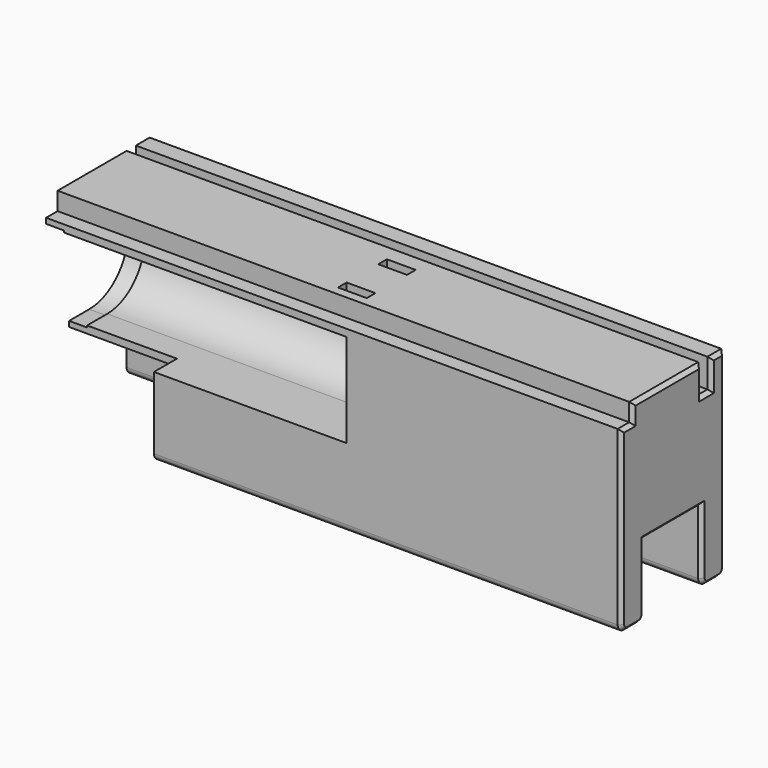
from build123d import *

# Parameters (mm, degrees)
PAD119_DEPTH            = 80
SKETCH530_R             = 2.75
POCKET373_DEPTH         = 8.001
SKETCH531_R             = 5
POCKET374_DEPTH         = 4.001
SKETCH538_W             = 3.2
SKETCH538_H             = 8
POCKET380_DEPTH         = 80.001
POCKET380_DEPTH_BACK    = 80.001
SKETCH550_W             = 30
SKETCH550_H             = 24
POCKET390_DEPTH         = 8.001
POCKET448_DEPTH         = 15.001
SKETCH625_W             = 8
SKETCH625_H             = 3
POCKET449_DEPTH         = 20.001
CHAMFER034_SIZE         = 1
POCKET477_DEPTH         = 12.5
BODY192_PLACEMENT_ANGLE = 180


with BuildPart() as part:
    # Sketch529 → Pad119 (new body, symmetric)
    with BuildSketch(Plane.YZ):
        with BuildLine():
            Line((-8, 2), (-8, 55))
            Line((-8, 55), (24, 55))
            Line((24, 55), (24, 50))
            Line((24, 50), (28, 50))
            Line((28, 50), (28, 2))
            ThreePointArc((26, 0), (27.414214, 0.585786), (28, 2))
            Line((26, 0), (22, 0))
            ThreePointArc((20, 2), (20.585786, 0.585786), (22, 0))
            Line((20, 2), (20, 20))
            Line((20, 20), (0, 20))
            Line((0, 20), (0, 2))
            ThreePointArc((-2, 0), (-0.585786, 0.585786), (0, 2))
            Line((-2, 0), (-6, 0))
            ThreePointArc((-8, 2), (-7.414214, 0.585786), (-6, 0))
        make_face()
    extrude(amount=PAD119_DEPTH, both=True)

    # Sketch530 → Pocket373 (cut, through all)
    with BuildSketch(Plane.XZ):
        with Locations((-50, 10)):
            Circle(SKETCH530_R)
        with Locations((50, 10)):
            Circle(SKETCH530_R)
    extrude(amount=POCKET373_DEPTH, mode=Mode.SUBTRACT)

    # Sketch531 → Pocket374 (cut, through all)
    with BuildSketch(Plane.XZ.offset(4)):
        with Locations((50, 10)):
            Circle(SKETCH531_R)
        with Locations((-50, 10)):
            Circle(SKETCH531_R)
    extrude(amount=POCKET374_DEPTH, mode=Mode.SUBTRACT)

    # Sketch538 → Pocket380 (cut, two sides)
    with BuildSketch(Plane.YZ) as pocket380_sk:
        with Locations((-1.6, 51)):
            Rectangle(SKETCH538_W, SKETCH538_H)
    extrude(amount=-POCKET380_DEPTH, mode=Mode.SUBTRACT)
    extrude(pocket380_sk.sketch, amount=POCKET380_DEPTH_BACK, mode=Mode.SUBTRACT)

    # Sketch550 → Pocket390 (cut, through all)
    with BuildSketch(Plane.XZ.offset(-20)):
        with Locations((65, 12)):
            Rectangle(SKETCH550_W, SKETCH550_H)
    extrude(amount=-POCKET390_DEPTH, mode=Mode.SUBTRACT)

    # Sketch623 → Groove022 (revolve, cut)
    with BuildSketch(Plane(origin=(0, 13, 35), x_dir=(1, 0, 0), z_dir=(0, 0, 1))):
        Polygon((-15, 0), (-15, 9), (-12.5, 9), (-12.5, 10), (-6.5, 10), (-3.5, 13), (75, 13), (75, 13.5), (80, 13.5), (80, 0), align=None)
    revolve(axis=Axis((0, 13, 35), (1, 0, 0)), mode=Mode.SUBTRACT)

    # Sketch624 → Pocket448 (cut, through all)
    with BuildSketch(Plane(origin=(0, 13, 35), x_dir=(1, 0, 0), z_dir=(0, -1, 0))):
        Polygon((-3.5, -13), (-3.5, 13), (75, 13), (75, 13.5), (80, 13.5), (80, -13.5), (75, -13.5), (75, -13), align=None)
    extrude(amount=-POCKET448_DEPTH, mode=Mode.SUBTRACT)

    # Sketch625 → Pocket449 (cut, through all)
    with BuildSketch(Plane(origin=(0, 13, 35), x_dir=(1, 0, 0), z_dir=(0, 0, 1))):
        with Locations((0, 7)):
            Rectangle(SKETCH625_W, SKETCH625_H)
        with Locations((0, -7)):
            Rectangle(SKETCH625_W, SKETCH625_H)
    extrude(amount=POCKET449_DEPTH, mode=Mode.SUBTRACT)

    # Chamfer034
    chamfer034_edges = [part.edges().sort_by_distance(p)[0] for p in [
        (-80, -4, 0),
        (-80, -7.414214, 0.585786),
        (-80, -8, 28.5),
        (-80, -5.6, 55),
        (-80, -3.2, 51),
        (-80, -1.6, 47),
        (-80, 0, 51),
        (-80, 12, 55),
        (-80, 24, 52.5),
        (-80, 26, 50),
        (-80, 28, 26),
        (-80, 27.414214, 0.585786),
        (-80, 24, 0),
        (-80, 20.585786, 0.585786),
        (-80, 20, 11),
        (-80, 10, 20),
        (-80, 0, 11),
        (-80, -0.585786, 0.585786),
    ]]
    chamfer(chamfer034_edges, length=CHAMFER034_SIZE)

    # Sketch666 → Pocket477 (cut)
    with BuildSketch(Plane.YZ):
        with BuildLine():
            ThreePointArc((11.562207, 46.409766), (4.868272, 43.131728), (1.590234, 36.437793))
            ThreePointArc((1.590234, 33.562207), (2.2, 35), (1.590234, 36.437793))
            ThreePointArc((1.590234, 33.562207), (4.868272, 26.868272), (11.562207, 23.590234))
            ThreePointArc((14.437793, 23.590234), (13, 24.2), (11.562207, 23.590234))
            ThreePointArc((14.437793, 23.590234), (21.131728, 26.868272), (24.409766, 33.562207))
            ThreePointArc((24.409766, 36.437793), (23.8, 35), (24.409766, 33.562207))
            ThreePointArc((24.409766, 36.437793), (21.131728, 43.131728), (14.437793, 46.409766))
            ThreePointArc((11.562207, 46.409766), (13, 45.8), (14.437793, 46.409766))
        make_face()
    extrude(amount=-POCKET477_DEPTH, mode=Mode.SUBTRACT)


with BuildPart() as part_1:
    # Body192 placement: moved
    add(part.part.moved(Location((0, 170, -220))).rotate(Axis((0, 170, -220), (0, 0, 1)), BODY192_PLACEMENT_ANGLE))


solid = part_1.part
